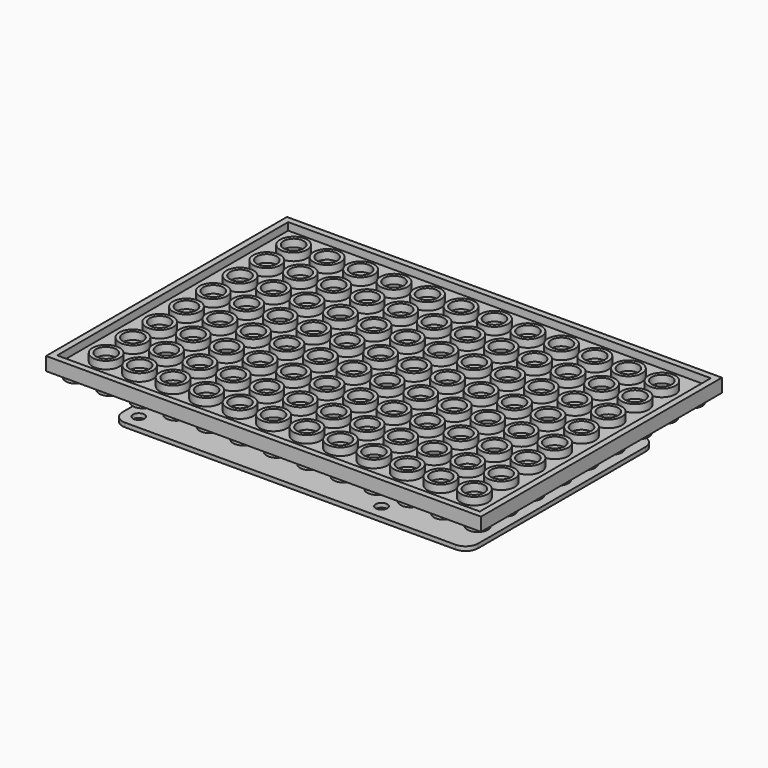
from build123d import *

# Parameters (mm, degrees)
F0_W      = 103.95
F0_H      = 71.95
F1_DEPTH  = 3.2
F2_W      = 101
F2_H      = 69
F2_R      = 3.25
F3_R      = 2.4
F4_DEPTH  = 1.8
F5_R      = 2.45
F6_DEPTH  = 1.7
F7_R      = 2.5
F7_R_2    = 1.25
F8_DEPTH  = 5
F10_W     = 85
F10_H     = 56
F11_DEPTH = 1
F12_R     = 3
F13_R     = 1.375
F14_DEPTH = 1


with BuildPart() as f1:
    # F0 (on Top) → F1 (new body)
    with BuildSketch(Plane.XY):
        with Locations((-51.975, 35.975)):
            Rectangle(F0_W, F0_H)
    extrude(amount=-F1_DEPTH)

    # F2 (on Top) + F3 (on face) → F4 (cut)
    with BuildSketch(Plane.XY):
        with Locations((-51.975, 35.975)):
            Rectangle(F2_W, F2_H)
        with Locations((-95.975, 7.975)):
            Circle(F2_R, mode=Mode.SUBTRACT)
        with Locations((-87.975, 7.975)):
            Circle(F2_R, mode=Mode.SUBTRACT)
        with Locations((-79.975, 7.975)):
            Circle(F2_R, mode=Mode.SUBTRACT)
        with Locations((-95.975, 15.975)):
            Circle(F2_R, mode=Mode.SUBTRACT)
        with Locations((-87.975, 15.975)):
            Circle(F2_R, mode=Mode.SUBTRACT)
        with Locations((-79.975, 15.975)):
            Circle(F2_R, mode=Mode.SUBTRACT)
        with Locations((-71.975, 7.975)):
            Circle(F2_R, mode=Mode.SUBTRACT)
        with Locations((-63.975, 7.975)):
            Circle(F2_R, mode=Mode.SUBTRACT)
        with Locations((-55.975, 7.975)):
            Circle(F2_R, mode=Mode.SUBTRACT)
        with Locations((-71.975, 15.975)):
            Circle(F2_R, mode=Mode.SUBTRACT)
        with Locations((-63.975, 15.975)):
            Circle(F2_R, mode=Mode.SUBTRACT)
        with Locations((-55.975, 15.975)):
            Circle(F2_R, mode=Mode.SUBTRACT)
        with Locations((-95.975, 23.975)):
            Circle(F2_R, mode=Mode.SUBTRACT)
        with Locations((-87.975, 23.975)):
            Circle(F2_R, mode=Mode.SUBTRACT)
        with Locations((-79.975, 23.975)):
            Circle(F2_R, mode=Mode.SUBTRACT)
        with Locations((-95.975, 31.975)):
            Circle(F2_R, mode=Mode.SUBTRACT)
        with Locations((-87.975, 31.975)):
            Circle(F2_R, mode=Mode.SUBTRACT)
        with Locations((-79.975, 31.975)):
            Circle(F2_R, mode=Mode.SUBTRACT)
        with Locations((-71.975, 23.975)):
            Circle(F2_R, mode=Mode.SUBTRACT)
        with Locations((-63.975, 23.975)):
            Circle(F2_R, mode=Mode.SUBTRACT)
        with Locations((-55.975, 23.975)):
            Circle(F2_R, mode=Mode.SUBTRACT)
        with Locations((-71.975, 31.975)):
            Circle(F2_R, mode=Mode.SUBTRACT)
        with Locations((-63.975, 31.975)):
            Circle(F2_R, mode=Mode.SUBTRACT)
        with Locations((-55.975, 31.975)):
            Circle(F2_R, mode=Mode.SUBTRACT)
        with Locations((-47.975, 7.975)):
            Circle(F2_R, mode=Mode.SUBTRACT)
        with Locations((-39.975, 7.975)):
            Circle(F2_R, mode=Mode.SUBTRACT)
        with Locations((-31.975, 7.975)):
            Circle(F2_R, mode=Mode.SUBTRACT)
        with Locations((-47.975, 15.975)):
            Circle(F2_R, mode=Mode.SUBTRACT)
        with Locations((-39.975, 15.975)):
            Circle(F2_R, mode=Mode.SUBTRACT)
        with Locations((-31.975, 15.975)):
            Circle(F2_R, mode=Mode.SUBTRACT)
        with Locations((-23.975, 7.975)):
            Circle(F2_R, mode=Mode.SUBTRACT)
        with Locations((-15.975, 7.975)):
            Circle(F2_R, mode=Mode.SUBTRACT)
        with Locations((-7.975, 7.975)):
            Circle(F2_R, mode=Mode.SUBTRACT)
        with Locations((-23.975, 15.975)):
            Circle(F2_R, mode=Mode.SUBTRACT)
        with Locations((-15.975, 15.975)):
            Circle(F2_R, mode=Mode.SUBTRACT)
        with Locations((-7.975, 15.975)):
            Circle(F2_R, mode=Mode.SUBTRACT)
        with Locations((-47.975, 23.975)):
            Circle(F2_R, mode=Mode.SUBTRACT)
        with Locations((-39.975, 23.975)):
            Circle(F2_R, mode=Mode.SUBTRACT)
        with Locations((-31.975, 23.975)):
            Circle(F2_R, mode=Mode.SUBTRACT)
        with Locations((-47.975, 31.975)):
            Circle(F2_R, mode=Mode.SUBTRACT)
        with Locations((-39.975, 31.975)):
            Circle(F2_R, mode=Mode.SUBTRACT)
        with Locations((-31.975, 31.975)):
            Circle(F2_R, mode=Mode.SUBTRACT)
        with Locations((-23.975, 23.975)):
            Circle(F2_R, mode=Mode.SUBTRACT)
        with Locations((-15.975, 23.975)):
            Circle(F2_R, mode=Mode.SUBTRACT)
        with Locations((-7.975, 23.975)):
            Circle(F2_R, mode=Mode.SUBTRACT)
        with Locations((-23.975, 31.975)):
            Circle(F2_R, mode=Mode.SUBTRACT)
        with Locations((-15.975, 31.975)):
            Circle(F2_R, mode=Mode.SUBTRACT)
        with Locations((-7.975, 31.975)):
            Circle(F2_R, mode=Mode.SUBTRACT)
        with Locations((-95.975, 39.975)):
            Circle(F2_R, mode=Mode.SUBTRACT)
        with Locations((-87.975, 39.975)):
            Circle(F2_R, mode=Mode.SUBTRACT)
        with Locations((-79.975, 39.975)):
            Circle(F2_R, mode=Mode.SUBTRACT)
        with Locations((-95.975, 47.975)):
            Circle(F2_R, mode=Mode.SUBTRACT)
        with Locations((-87.975, 47.975)):
            Circle(F2_R, mode=Mode.SUBTRACT)
        with Locations((-79.975, 47.975)):
            Circle(F2_R, mode=Mode.SUBTRACT)
        with Locations((-71.975, 39.975)):
            Circle(F2_R, mode=Mode.SUBTRACT)
        with Locations((-63.975, 39.975)):
            Circle(F2_R, mode=Mode.SUBTRACT)
        with Locations((-55.975, 39.975)):
            Circle(F2_R, mode=Mode.SUBTRACT)
        with Locations((-71.975, 47.975)):
            Circle(F2_R, mode=Mode.SUBTRACT)
        with Locations((-63.975, 47.975)):
            Circle(F2_R, mode=Mode.SUBTRACT)
        with Locations((-55.975, 47.975)):
            Circle(F2_R, mode=Mode.SUBTRACT)
        with Locations((-95.975, 55.975)):
            Circle(F2_R, mode=Mode.SUBTRACT)
        with Locations((-87.975, 55.975)):
            Circle(F2_R, mode=Mode.SUBTRACT)
        with Locations((-79.975, 55.975)):
            Circle(F2_R, mode=Mode.SUBTRACT)
        with Locations((-95.975, 63.975)):
            Circle(F2_R, mode=Mode.SUBTRACT)
        with Locations((-87.975, 63.975)):
            Circle(F2_R, mode=Mode.SUBTRACT)
        with Locations((-79.975, 63.975)):
            Circle(F2_R, mode=Mode.SUBTRACT)
        with Locations((-71.975, 55.975)):
            Circle(F2_R, mode=Mode.SUBTRACT)
        with Locations((-63.975, 55.975)):
            Circle(F2_R, mode=Mode.SUBTRACT)
        with Locations((-55.975, 55.975)):
            Circle(F2_R, mode=Mode.SUBTRACT)
        with Locations((-71.975, 63.975)):
            Circle(F2_R, mode=Mode.SUBTRACT)
        with Locations((-63.975, 63.975)):
            Circle(F2_R, mode=Mode.SUBTRACT)
        with Locations((-55.975, 63.975)):
            Circle(F2_R, mode=Mode.SUBTRACT)
        with Locations((-47.975, 39.975)):
            Circle(F2_R, mode=Mode.SUBTRACT)
        with Locations((-39.975, 39.975)):
            Circle(F2_R, mode=Mode.SUBTRACT)
        with Locations((-31.975, 39.975)):
            Circle(F2_R, mode=Mode.SUBTRACT)
        with Locations((-47.975, 47.975)):
            Circle(F2_R, mode=Mode.SUBTRACT)
        with Locations((-39.975, 47.975)):
            Circle(F2_R, mode=Mode.SUBTRACT)
        with Locations((-31.975, 47.975)):
            Circle(F2_R, mode=Mode.SUBTRACT)
        with Locations((-23.975, 39.975)):
            Circle(F2_R, mode=Mode.SUBTRACT)
        with Locations((-15.975, 39.975)):
            Circle(F2_R, mode=Mode.SUBTRACT)
        with Locations((-7.975, 39.975)):
            Circle(F2_R, mode=Mode.SUBTRACT)
        with Locations((-23.975, 47.975)):
            Circle(F2_R, mode=Mode.SUBTRACT)
        with Locations((-15.975, 47.975)):
            Circle(F2_R, mode=Mode.SUBTRACT)
        with Locations((-7.975, 47.975)):
            Circle(F2_R, mode=Mode.SUBTRACT)
        with Locations((-47.975, 55.975)):
            Circle(F2_R, mode=Mode.SUBTRACT)
        with Locations((-39.975, 55.975)):
            Circle(F2_R, mode=Mode.SUBTRACT)
        with Locations((-31.975, 55.975)):
            Circle(F2_R, mode=Mode.SUBTRACT)
        with Locations((-47.975, 63.975)):
            Circle(F2_R, mode=Mode.SUBTRACT)
        with Locations((-39.975, 63.975)):
            Circle(F2_R, mode=Mode.SUBTRACT)
        with Locations((-31.975, 63.975)):
            Circle(F2_R, mode=Mode.SUBTRACT)
        with Locations((-23.975, 55.975)):
            Circle(F2_R, mode=Mode.SUBTRACT)
        with Locations((-15.975, 55.975)):
            Circle(F2_R, mode=Mode.SUBTRACT)
        with Locations((-7.975, 55.975)):
            Circle(F2_R, mode=Mode.SUBTRACT)
        with Locations((-23.975, 63.975)):
            Circle(F2_R, mode=Mode.SUBTRACT)
        with Locations((-15.975, 63.975)):
            Circle(F2_R, mode=Mode.SUBTRACT)
        with Locations((-7.975, 63.975)):
            Circle(F2_R, mode=Mode.SUBTRACT)
    with BuildSketch(Plane.XY):
        with Locations((-7.975, 7.975)):
            Circle(F3_R)
        with Locations((-7.975, 15.975)):
            Circle(F3_R)
        with Locations((-7.975, 23.975)):
            Circle(F3_R)
        with Locations((-7.975, 31.975)):
            Circle(F3_R)
        with Locations((-7.975, 39.975)):
            Circle(F3_R)
        with Locations((-7.975, 47.975)):
            Circle(F3_R)
        with Locations((-7.975, 55.975)):
            Circle(F3_R)
        with Locations((-7.975, 63.975)):
            Circle(F3_R)
        with Locations((-15.975, 7.975)):
            Circle(F3_R)
        with Locations((-15.975, 15.975)):
            Circle(F3_R)
        with Locations((-15.975, 23.975)):
            Circle(F3_R)
        with Locations((-15.975, 31.975)):
            Circle(F3_R)
        with Locations((-15.975, 39.975)):
            Circle(F3_R)
        with Locations((-15.975, 47.975)):
            Circle(F3_R)
        with Locations((-15.975, 55.975)):
            Circle(F3_R)
        with Locations((-15.975, 63.975)):
            Circle(F3_R)
        with Locations((-23.975, 7.975)):
            Circle(F3_R)
        with Locations((-23.975, 15.975)):
            Circle(F3_R)
        with Locations((-23.975, 23.975)):
            Circle(F3_R)
        with Locations((-23.975, 31.975)):
            Circle(F3_R)
        with Locations((-23.975, 39.975)):
            Circle(F3_R)
        with Locations((-23.975, 47.975)):
            Circle(F3_R)
        with Locations((-23.975, 55.975)):
            Circle(F3_R)
        with Locations((-23.975, 63.975)):
            Circle(F3_R)
        with Locations((-31.975, 7.975)):
            Circle(F3_R)
        with Locations((-31.975, 15.975)):
            Circle(F3_R)
        with Locations((-31.975, 23.975)):
            Circle(F3_R)
        with Locations((-31.975, 31.975)):
            Circle(F3_R)
        with Locations((-31.975, 39.975)):
            Circle(F3_R)
        with Locations((-31.975, 47.975)):
            Circle(F3_R)
        with Locations((-31.975, 55.975)):
            Circle(F3_R)
        with Locations((-31.975, 63.975)):
            Circle(F3_R)
        with Locations((-39.975, 7.975)):
            Circle(F3_R)
        with Locations((-39.975, 15.975)):
            Circle(F3_R)
        with Locations((-39.975, 23.975)):
            Circle(F3_R)
        with Locations((-39.975, 31.975)):
            Circle(F3_R)
        with Locations((-39.975, 39.975)):
            Circle(F3_R)
        with Locations((-39.975, 47.975)):
            Circle(F3_R)
        with Locations((-39.975, 55.975)):
            Circle(F3_R)
        with Locations((-39.975, 63.975)):
            Circle(F3_R)
        with Locations((-47.975, 7.975)):
            Circle(F3_R)
        with Locations((-47.975, 15.975)):
            Circle(F3_R)
        with Locations((-47.975, 23.975)):
            Circle(F3_R)
        with Locations((-47.975, 31.975)):
            Circle(F3_R)
        with Locations((-47.975, 39.975)):
            Circle(F3_R)
        with Locations((-47.975, 47.975)):
            Circle(F3_R)
        with Locations((-47.975, 55.975)):
            Circle(F3_R)
        with Locations((-47.975, 63.975)):
            Circle(F3_R)
        with Locations((-55.975, 7.975)):
            Circle(F3_R)
        with Locations((-55.975, 15.975)):
            Circle(F3_R)
        with Locations((-55.975, 23.975)):
            Circle(F3_R)
        with Locations((-55.975, 31.975)):
            Circle(F3_R)
        with Locations((-55.975, 39.975)):
            Circle(F3_R)
        with Locations((-55.975, 47.975)):
            Circle(F3_R)
        with Locations((-55.975, 55.975)):
            Circle(F3_R)
        with Locations((-55.975, 63.975)):
            Circle(F3_R)
        with Locations((-63.975, 7.975)):
            Circle(F3_R)
        with Locations((-63.975, 15.975)):
            Circle(F3_R)
        with Locations((-63.975, 23.975)):
            Circle(F3_R)
        with Locations((-63.975, 31.975)):
            Circle(F3_R)
        with Locations((-63.975, 39.975)):
            Circle(F3_R)
        with Locations((-63.975, 47.975)):
            Circle(F3_R)
        with Locations((-63.975, 55.975)):
            Circle(F3_R)
        with Locations((-63.975, 63.975)):
            Circle(F3_R)
        with Locations((-71.975, 7.975)):
            Circle(F3_R)
        with Locations((-71.975, 15.975)):
            Circle(F3_R)
        with Locations((-71.975, 23.975)):
            Circle(F3_R)
        with Locations((-71.975, 31.975)):
            Circle(F3_R)
        with Locations((-71.975, 39.975)):
            Circle(F3_R)
        with Locations((-71.975, 47.975)):
            Circle(F3_R)
        with Locations((-71.975, 55.975)):
            Circle(F3_R)
        with Locations((-71.975, 63.975)):
            Circle(F3_R)
        with Locations((-79.975, 7.975)):
            Circle(F3_R)
        with Locations((-79.975, 15.975)):
            Circle(F3_R)
        with Locations((-79.975, 23.975)):
            Circle(F3_R)
        with Locations((-79.975, 31.975)):
            Circle(F3_R)
        with Locations((-79.975, 39.975)):
            Circle(F3_R)
        with Locations((-79.975, 47.975)):
            Circle(F3_R)
        with Locations((-79.975, 55.975)):
            Circle(F3_R)
        with Locations((-79.975, 63.975)):
            Circle(F3_R)
        with Locations((-87.975, 7.975)):
            Circle(F3_R)
        with Locations((-87.975, 15.975)):
            Circle(F3_R)
        with Locations((-87.975, 23.975)):
            Circle(F3_R)
        with Locations((-87.975, 31.975)):
            Circle(F3_R)
        with Locations((-87.975, 39.975)):
            Circle(F3_R)
        with Locations((-87.975, 47.975)):
            Circle(F3_R)
        with Locations((-87.975, 55.975)):
            Circle(F3_R)
        with Locations((-87.975, 63.975)):
            Circle(F3_R)
        with Locations((-95.975, 7.975)):
            Circle(F3_R)
        with Locations((-95.975, 15.975)):
            Circle(F3_R)
        with Locations((-95.975, 23.975)):
            Circle(F3_R)
        with Locations((-95.975, 31.975)):
            Circle(F3_R)
        with Locations((-95.975, 39.975)):
            Circle(F3_R)
        with Locations((-95.975, 47.975)):
            Circle(F3_R)
        with Locations((-95.975, 55.975)):
            Circle(F3_R)
        with Locations((-95.975, 63.975)):
            Circle(F3_R)
    extrude(amount=-F4_DEPTH, mode=Mode.SUBTRACT)

    # F5 (on face) → F6 (join)
    with BuildSketch(Plane(origin=(0, 0, -3.2), x_dir=(1, 0, 0), z_dir=(0, 0, -1))):
        with Locations((-4, -4)):
            Circle(F5_R)
        with Locations((-4, -68)):
            Circle(F5_R)
        with Locations((-12, -4)):
            Circle(F5_R)
        with Locations((-12, -68)):
            Circle(F5_R)
        with Locations((-20, -4)):
            Circle(F5_R)
        with Locations((-20, -68)):
            Circle(F5_R)
        with Locations((-28, -4)):
            Circle(F5_R)
        with Locations((-28, -68)):
            Circle(F5_R)
        with Locations((-36, -4)):
            Circle(F5_R)
        with Locations((-36, -68)):
            Circle(F5_R)
        with Locations((-44, -4)):
            Circle(F5_R)
        with Locations((-44, -68)):
            Circle(F5_R)
        with Locations((-52, -4)):
            Circle(F5_R)
        with Locations((-52, -68)):
            Circle(F5_R)
        with Locations((-60, -4)):
            Circle(F5_R)
        with Locations((-60, -68)):
            Circle(F5_R)
        with Locations((-68, -4)):
            Circle(F5_R)
        with Locations((-68, -68)):
            Circle(F5_R)
        with Locations((-76, -4)):
            Circle(F5_R)
        with Locations((-76, -68)):
            Circle(F5_R)
        with Locations((-84, -4)):
            Circle(F5_R)
        with Locations((-84, -68)):
            Circle(F5_R)
        with Locations((-92, -4)):
            Circle(F5_R)
        with Locations((-92, -68)):
            Circle(F5_R)
        with Locations((-100, -4)):
            Circle(F5_R)
        with Locations((-100, -68)):
            Circle(F5_R)
        with Locations((-4, -12)):
            Circle(F5_R)
        with Locations((-4, -20)):
            Circle(F5_R)
        with Locations((-4, -28)):
            Circle(F5_R)
        with Locations((-4, -36)):
            Circle(F5_R)
        with Locations((-4, -44)):
            Circle(F5_R)
        with Locations((-4, -52)):
            Circle(F5_R)
        with Locations((-4, -60)):
            Circle(F5_R)
        with Locations((-100, -12)):
            Circle(F5_R)
        with Locations((-100, -20)):
            Circle(F5_R)
        with Locations((-100, -28)):
            Circle(F5_R)
        with Locations((-100, -36)):
            Circle(F5_R)
        with Locations((-100, -44)):
            Circle(F5_R)
        with Locations((-100, -52)):
            Circle(F5_R)
        with Locations((-100, -60)):
            Circle(F5_R)
    extrude(amount=F6_DEPTH)

    # F7 (on face) → F8 (join)
    with BuildSketch(Plane(origin=(0, 0, -3.2), x_dir=(1, 0, 0), z_dir=(0, 0, -1))):
        with Locations((-32.975, -60.475)):
            Circle(F7_R)
        with Locations((-32.975, -60.475)):
            Circle(F7_R_2, mode=Mode.SUBTRACT)
        with Locations((-90.975, -60.475)):
            Circle(F7_R)
        with Locations((-90.975, -60.475)):
            Circle(F7_R_2, mode=Mode.SUBTRACT)
        with Locations((-32.975, -11.475)):
            Circle(F7_R)
        with Locations((-32.975, -11.475)):
            Circle(F7_R_2, mode=Mode.SUBTRACT)
        with Locations((-90.975, -11.475)):
            Circle(F7_R)
        with Locations((-90.975, -11.475)):
            Circle(F7_R_2, mode=Mode.SUBTRACT)
    extrude(amount=F8_DEPTH)


with BuildPart() as f11:
    # F10 (on offset) → F11 (new body)
    with BuildSketch(Plane(origin=(0, 0, -13.2), x_dir=(1, 0, 0), z_dir=(0, 0, -1))):
        with Locations((-51.975, -35.975)):
            Rectangle(F10_W, F10_H)
    extrude(amount=F11_DEPTH)

    # F12
    f12_edges = [f11.edges().sort_by_distance(p)[0] for p in [
        (-94.475, 7.975, -13.7),
        (-94.475, 63.975, -13.7),
        (-9.475, 63.975, -13.7),
        (-9.475, 7.975, -13.7),
    ]]
    fillet(f12_edges, radius=F12_R)

    # F13 (on face) → F14 (cut, through all)
    with BuildSketch(Plane(origin=(0, 0, -14.2), x_dir=(1, 0, 0), z_dir=(0, 0, -1))):
        with Locations((-90.975, -60.475)):
            Circle(F13_R)
        with Locations((-90.975, -11.475)):
            Circle(F13_R)
        with Locations((-32.975, -60.475)):
            Circle(F13_R)
        with Locations((-32.975, -11.475)):
            Circle(F13_R)
    extrude(amount=-F14_DEPTH, mode=Mode.SUBTRACT)


solid = Compound([f1.part, f11.part])
